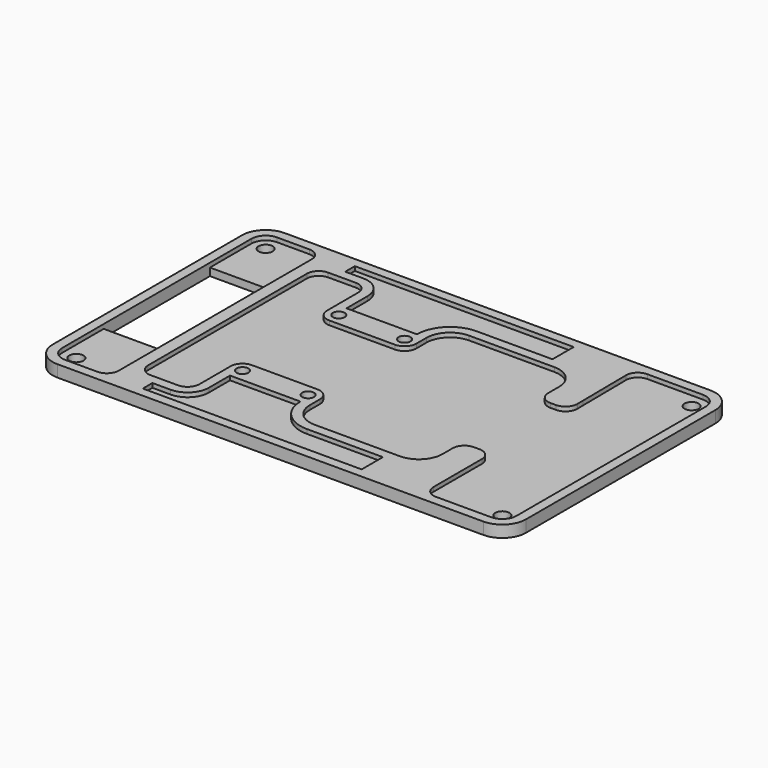
from build123d import *

# Parameters (mm, degrees)
F0_R     = 1.5875
F1_DEPTH = 3.175
F2_DEPTH = 3.175
F3_DEPTH = 2.032
F4_DEPTH = 2.032
F5_DEPTH = 2.032
F0_R_2   = 1.905
F6_DEPTH = 2.032
F7_DEPTH = 2.032


with BuildPart() as f1:
    # F0 (on Top) → F1 (new body)
    with BuildSketch(Plane.XY):
        with BuildLine():
            ThreePointArc((0, 6.35), (1.859872, 1.859872), (6.35, 0))
            Line((6.35, 0), (120.65, 0))
            ThreePointArc((120.65, 0), (125.140128, 1.859872), (127, 6.35))
            Line((127, 6.35), (127, 69.85))
            ThreePointArc((127, 69.85), (125.140128, 74.340128), (120.65, 76.2))
            Line((120.65, 76.2), (88.491705, 76.2))
            Line((88.491705, 76.2), (88.491705, 63.996129))
            ThreePointArc((88.491705, 63.996129), (92.983074, 62.135015), (94.841704, 57.642618))
            Line((94.841704, 57.642618), (94.841704, 53.946127))
            ThreePointArc((94.841704, 53.946127), (95.77164, 51.701063), (98.016704, 50.771127))
            Line((98.016704, 50.771127), (99.518864, 50.771127))
            ThreePointArc((99.518864, 50.771127), (101.7757, 51.712898), (102.693688, 53.979511))
            Line((102.693688, 53.979511), (102.673301, 55.918332))
            Line((102.673301, 55.918332), (102.519207, 70.572822))
            ThreePointArc((102.519207, 70.572822), (103.479196, 72.760902), (105.692992, 73.66))
            Line((105.692992, 73.66), (120.65, 73.66))
            ThreePointArc((120.65, 73.66), (123.344077, 72.544077), (124.46, 69.85))
            Line((124.46, 69.85), (124.46, 55.918332))
            Line((124.46, 55.918332), (124.46, 20.257623))
            Line((124.46, 20.257623), (124.46, 6.35))
            ThreePointArc((124.46, 6.35), (123.344077, 3.655923), (120.65, 2.54))
            Line((120.65, 2.54), (105.868862, 2.54))
            ThreePointArc((105.868862, 2.54), (103.625039, 3.468695), (102.693864, 5.711489))
            Line((102.693864, 5.711489), (102.693864, 20.281668))
            Line((102.693864, 20.281668), (102.693864, 21.936632))
            ThreePointArc((102.693864, 21.936632), (101.763928, 24.181696), (99.518864, 25.111632))
            Line((99.518864, 25.111632), (98.016704, 25.111632))
            ThreePointArc((98.016704, 25.111632), (95.77164, 24.181696), (94.841704, 21.936632))
            Line((94.841704, 21.936632), (94.841704, 18.553871))
            ThreePointArc((94.841704, 18.553871), (92.981832, 14.063743), (88.491704, 12.203871))
            Line((88.491704, 12.203871), (65.598477, 12.203871))
            ThreePointArc((65.598477, 12.203871), (61.108349, 14.063743), (59.248477, 18.553871))
            Line((59.248477, 18.553871), (59.248477, 21.940143))
            ThreePointArc((59.248477, 21.940143), (58.318541, 24.185207), (56.073477, 25.115143))
            Line((56.073477, 25.115143), (38.445395, 25.115143))
            ThreePointArc((38.445395, 25.115143), (36.200331, 24.185207), (35.270395, 21.940143))
            Line((35.270395, 21.940143), (35.270395, 11.475343))
            ThreePointArc((35.270395, 11.475343), (34.339286, 9.232426), (32.095397, 8.303664))
            Line((32.095397, 8.303664), (24.686663, 8.303664))
            ThreePointArc((24.686663, 8.303664), (22.441599, 9.2336), (21.511663, 11.478664))
            Line((21.511663, 11.478664), (21.511663, 64.721336))
            ThreePointArc((21.511663, 64.721336), (22.441599, 66.9664), (24.686663, 67.896336))
            Line((24.686663, 67.896336), (24.686663, 76.2))
            Line((24.686663, 76.2), (6.35, 76.2))
            ThreePointArc((6.35, 76.2), (1.859872, 74.340128), (0, 69.85))
            Line((0, 69.85), (0, 6.35))
        make_face()
        with BuildLine():
            Line((37.810397, 18.565171), (56.708484, 18.565171))
            ThreePointArc((56.708484, 18.565171), (59.308304, 12.271688), (65.598477, 9.663871))
            Line((65.598477, 9.663871), (85.951705, 9.663871))
            Line((85.951705, 9.663871), (85.951705, 2.54))
            Line((85.951705, 2.54), (27.226663, 2.54))
            Line((27.226663, 2.54), (27.226663, 5.763664))
            Line((27.226663, 5.763664), (32.095397, 5.763664))
            ThreePointArc((32.095397, 5.763664), (36.136512, 7.437548), (37.810397, 11.478664))
            Line((37.810397, 11.478664), (37.810397, 18.565171))
        make_face(mode=Mode.SUBTRACT)
        with BuildLine():
            ThreePointArc((6.35, 2.54), (3.655923, 3.655923), (2.54, 6.35))
            Line((2.54, 6.35), (2.54, 20.281668))
            Line((2.54, 20.281668), (2.54, 55.918332))
            Line((2.54, 55.918332), (2.54, 69.85))
            ThreePointArc((2.54, 69.85), (3.655923, 72.544077), (6.35, 73.66))
            Line((6.35, 73.66), (15.046535, 73.66))
            ThreePointArc((15.046535, 73.66), (17.291599, 72.730064), (18.221535, 70.485))
            Line((18.221535, 70.485), (18.221535, 55.918332))
            Line((18.221535, 55.918332), (18.221535, 20.281668))
            Line((18.221535, 20.281668), (18.221535, 5.715))
            ThreePointArc((18.221535, 5.715), (17.291599, 3.469936), (15.046535, 2.54))
            Line((15.046535, 2.54), (6.35, 2.54))
        make_face(mode=Mode.SUBTRACT)
        with Locations((38.445395, 21.940143)):
            Circle(F0_R, mode=Mode.SUBTRACT)
        with Locations((56.073477, 21.940143)):
            Circle(F0_R, mode=Mode.SUBTRACT)
    extrude(amount=F1_DEPTH)

    # F0 (on Top) → F2 (join)
    with BuildSketch(Plane.XY):
        with BuildLine():
            Line((88.491705, 76.2), (24.686663, 76.2))
            Line((24.686663, 76.2), (24.686663, 67.896336))
            Line((24.686663, 67.896336), (32.095397, 67.896336))
            ThreePointArc((32.095397, 67.896336), (34.340461, 66.9664), (35.270397, 64.721336))
            Line((35.270397, 64.721336), (35.270397, 54.259857))
            ThreePointArc((35.270397, 54.259857), (36.200333, 52.014793), (38.445397, 51.084857))
            Line((38.445397, 51.084857), (56.073482, 51.084857))
            ThreePointArc((56.073482, 51.084857), (58.318546, 52.014793), (59.248482, 54.259857))
            Line((59.248482, 54.259857), (59.248482, 57.638057))
            ThreePointArc((59.248482, 57.638057), (61.105496, 62.133402), (65.598477, 63.996129))
            Line((65.598477, 63.996129), (88.491705, 63.996129))
            Line((88.491705, 63.996129), (88.491705, 76.2))
        make_face()
        with Locations((38.445397, 54.259857)):
            Circle(F0_R, mode=Mode.SUBTRACT)
        with Locations((56.073482, 54.259857)):
            Circle(F0_R, mode=Mode.SUBTRACT)
        with BuildLine():
            Line((27.226663, 73.66), (85.951705, 73.66))
            Line((85.951705, 73.66), (85.951705, 66.536129))
            Line((85.951705, 66.536129), (65.598477, 66.536129))
            ThreePointArc((65.598477, 66.536129), (59.308304, 63.928312), (56.708484, 57.634829))
            Line((56.708484, 57.634829), (37.810397, 57.634829))
            Line((37.810397, 57.634829), (37.810397, 64.721336))
            ThreePointArc((37.810397, 64.721336), (36.136512, 68.762452), (32.095397, 70.436336))
            Line((32.095397, 70.436336), (27.226663, 70.436336))
            Line((27.226663, 70.436336), (27.226663, 73.66))
        make_face(mode=Mode.SUBTRACT)
    extrude(amount=F2_DEPTH)

    # F0 (on Top) → F3 (join)
    with BuildSketch(Plane.XY):
        with BuildLine():
            Line((85.951705, 66.536129), (85.951705, 73.66))
            Line((85.951705, 73.66), (27.226663, 73.66))
            Line((27.226663, 73.66), (27.226663, 70.436336))
            Line((27.226663, 70.436336), (32.095397, 70.436336))
            ThreePointArc((32.095397, 70.436336), (36.136512, 68.762452), (37.810397, 64.721336))
            Line((37.810397, 64.721336), (37.810397, 57.634829))
            Line((37.810397, 57.634829), (56.708484, 57.634829))
            ThreePointArc((56.708484, 57.634829), (59.308304, 63.928312), (65.598477, 66.536129))
            Line((65.598477, 66.536129), (85.951705, 66.536129))
        make_face()
    extrude(amount=F3_DEPTH)

    # F0 (on Top) → F4 (join)
    with BuildSketch(Plane.XY):
        with BuildLine():
            Line((32.095397, 67.896336), (24.686663, 67.896336))
            ThreePointArc((24.686663, 67.896336), (22.441599, 66.9664), (21.511663, 64.721336))
            Line((21.511663, 64.721336), (21.511663, 11.478664))
            ThreePointArc((21.511663, 11.478664), (22.441599, 9.2336), (24.686663, 8.303664))
            Line((24.686663, 8.303664), (32.095397, 8.303664))
            ThreePointArc((32.095397, 8.303664), (34.339286, 9.232426), (35.270395, 11.475343))
            Line((35.270395, 11.475343), (35.270395, 21.940143))
            ThreePointArc((35.270395, 21.940143), (36.200331, 24.185207), (38.445395, 25.115143))
            Line((38.445395, 25.115143), (56.073477, 25.115143))
            ThreePointArc((56.073477, 25.115143), (58.318541, 24.185207), (59.248477, 21.940143))
            Line((59.248477, 21.940143), (59.248477, 18.553871))
            ThreePointArc((59.248477, 18.553871), (61.108349, 14.063743), (65.598477, 12.203871))
            Line((65.598477, 12.203871), (88.491704, 12.203871))
            ThreePointArc((88.491704, 12.203871), (92.981832, 14.063743), (94.841704, 18.553871))
            Line((94.841704, 18.553871), (94.841704, 21.936632))
            ThreePointArc((94.841704, 21.936632), (95.77164, 24.181696), (98.016704, 25.111632))
            Line((98.016704, 25.111632), (99.518864, 25.111632))
            ThreePointArc((99.518864, 25.111632), (101.763928, 24.181696), (102.693864, 21.936632))
            Line((102.693864, 21.936632), (102.693864, 20.281668))
            Line((102.693864, 20.281668), (124.46, 20.257623))
            Line((124.46, 20.257623), (124.46, 55.918332))
            Line((124.46, 55.918332), (102.673301, 55.918332))
            Line((102.673301, 55.918332), (102.693688, 53.979511))
            ThreePointArc((102.693688, 53.979511), (101.7757, 51.712898), (99.518864, 50.771127))
            Line((99.518864, 50.771127), (98.016704, 50.771127))
            ThreePointArc((98.016704, 50.771127), (95.77164, 51.701063), (94.841704, 53.946127))
            Line((94.841704, 53.946127), (94.841704, 57.642618))
            ThreePointArc((94.841704, 57.642618), (92.983074, 62.135015), (88.491705, 63.996129))
            Line((88.491705, 63.996129), (65.598477, 63.996129))
            ThreePointArc((65.598477, 63.996129), (61.105496, 62.133402), (59.248482, 57.638057))
            Line((59.248482, 57.638057), (59.248482, 54.259857))
            ThreePointArc((59.248482, 54.259857), (58.318546, 52.014793), (56.073482, 51.084857))
            Line((56.073482, 51.084857), (38.445397, 51.084857))
            ThreePointArc((38.445397, 51.084857), (36.200333, 52.014793), (35.270397, 54.259857))
            Line((35.270397, 54.259857), (35.270397, 64.721336))
            ThreePointArc((35.270397, 64.721336), (34.340461, 66.9664), (32.095397, 67.896336))
        make_face()
    extrude(amount=F4_DEPTH)

    # F0 (on Top) → F5 (join)
    with BuildSketch(Plane.XY):
        with BuildLine():
            ThreePointArc((65.598477, 9.663871), (59.308304, 12.271688), (56.708484, 18.565171))
            Line((56.708484, 18.565171), (37.810397, 18.565171))
            Line((37.810397, 18.565171), (37.810397, 11.478664))
            ThreePointArc((37.810397, 11.478664), (36.136512, 7.437548), (32.095397, 5.763664))
            Line((32.095397, 5.763664), (27.226663, 5.763664))
            Line((27.226663, 5.763664), (27.226663, 2.54))
            Line((27.226663, 2.54), (85.951705, 2.54))
            Line((85.951705, 2.54), (85.951705, 9.663871))
            Line((85.951705, 9.663871), (65.598477, 9.663871))
        make_face()
    extrude(amount=F5_DEPTH)

    # F0 (on Top) → F6 (join)
    with BuildSketch(Plane.XY):
        with BuildLine():
            Line((2.54, 20.281668), (2.54, 6.35))
            ThreePointArc((2.54, 6.35), (3.655923, 3.655923), (6.35, 2.54))
            Line((6.35, 2.54), (15.046535, 2.54))
            ThreePointArc((15.046535, 2.54), (17.291599, 3.469936), (18.221535, 5.715))
            Line((18.221535, 5.715), (18.221535, 20.281668))
            Line((18.221535, 20.281668), (2.54, 20.281668))
        make_face()
        with Locations((6.35, 6.35)):
            Circle(F0_R_2, mode=Mode.SUBTRACT)
    extrude(amount=F6_DEPTH)

    # F0 (on Top) → F7 (join)
    with BuildSketch(Plane.XY):
        with BuildLine():
            Line((102.519207, 70.572822), (102.673301, 55.918332))
            Line((102.673301, 55.918332), (124.46, 55.918332))
            Line((124.46, 55.918332), (124.46, 69.85))
            ThreePointArc((124.46, 69.85), (123.344077, 72.544077), (120.65, 73.66))
            Line((120.65, 73.66), (105.692992, 73.66))
            ThreePointArc((105.692992, 73.66), (103.479196, 72.760902), (102.519207, 70.572822))
        make_face()
        with Locations((120.65, 69.85)):
            Circle(F0_R_2, mode=Mode.SUBTRACT)
        with BuildLine():
            Line((2.54, 69.85), (2.54, 55.918332))
            Line((2.54, 55.918332), (18.221535, 55.918332))
            Line((18.221535, 55.918332), (18.221535, 70.485))
            ThreePointArc((18.221535, 70.485), (17.291599, 72.730064), (15.046535, 73.66))
            Line((15.046535, 73.66), (6.35, 73.66))
            ThreePointArc((6.35, 73.66), (3.655923, 72.544077), (2.54, 69.85))
        make_face()
        with Locations((6.35, 69.85)):
            Circle(F0_R_2, mode=Mode.SUBTRACT)
        with BuildLine():
            Line((124.46, 6.35), (124.46, 20.257623))
            Line((124.46, 20.257623), (102.693864, 20.281668))
            Line((102.693864, 20.281668), (102.693864, 5.711489))
            ThreePointArc((102.693864, 5.711489), (103.625039, 3.468695), (105.868862, 2.54))
            Line((105.868862, 2.54), (120.65, 2.54))
            ThreePointArc((120.65, 2.54), (123.344077, 3.655923), (124.46, 6.35))
        make_face()
        with Locations((120.65, 6.35)):
            Circle(F0_R_2, mode=Mode.SUBTRACT)
    extrude(amount=F7_DEPTH)


solid = f1.part
